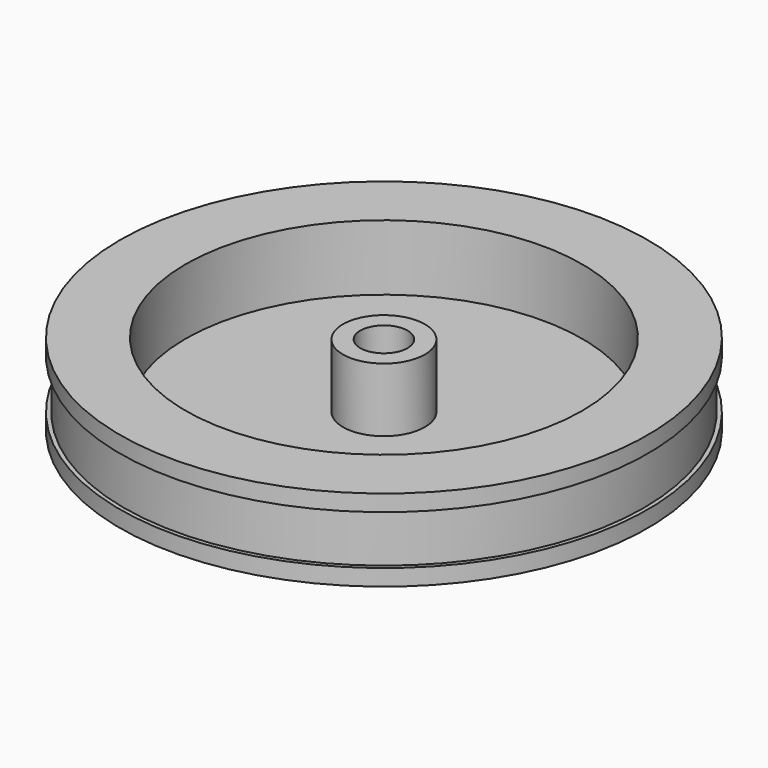
from build123d import *

# Parameters (mm, degrees)
F2_R     = 5
F3_DEPTH = 7.8
F4_R     = 2.88696
F5_DEPTH = 25


with BuildPart() as f1:
    # F0 (on Front) → F1 (revolve)
    with BuildSketch(Plane.XZ):
        Polygon((-32.2, 0), (0, 0), (0, 2), (-24.2, 2), (-24.2, 10), (-32.2, 10), (-32.2, 8), (-31.7, 8), (-31.7, 2), (-32.2, 2), align=None)
    revolve(axis=Axis((0, 0, 1), (0, 0, -1)))

    # F2 (on face) → F3 (join)
    with BuildSketch(Plane.XY.offset(2)):
        Circle(F2_R)
    extrude(amount=F3_DEPTH)

    # F4 (on face) → F5 (cut)
    with BuildSketch(Plane.XY.offset(9.8)):
        Circle(F4_R)
    extrude(amount=-F5_DEPTH, mode=Mode.SUBTRACT)


solid = f1.part
